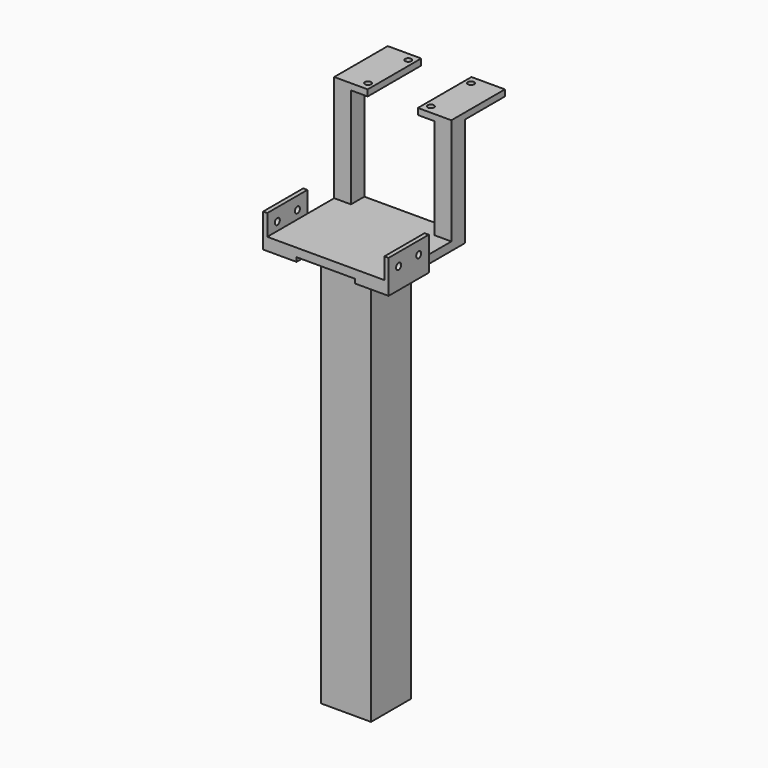
from build123d import *

# Parameters (mm, degrees)
F0_W      = 76.2
F0_H      = 76.2
F0_W_2    = 63.5
F0_H_2    = 63.5
F1_DEPTH  = 609.6
F2_W      = 177.8
F2_H      = 152.4
F3_DEPTH  = 12.7
F5_DEPTH  = 6.35
F6_W      = 6.35
F6_H      = 76.2
F7_DEPTH  = 44.45
F8_W      = 6.35
F8_H      = 76.2
F9_DEPTH  = 44.45
F10_R     = 4.7625
F11_DEPTH = 254
F13_W     = 25.4
F13_H     = 25.4
F14_DEPTH = 152.4
F15_W     = 50.8
F15_H     = 101.6
F16_DEPTH = 9.525
F17_W     = 50.8
F17_H     = 101.6
F18_DEPTH = 9.525
F19_R     = 4.7625
F20_DEPTH = 25.4
F21_R     = 4.7625
F22_DEPTH = 25.4


with BuildPart() as f1:
    # F0 (on Top) → F1 (new body)
    with BuildSketch(Plane.XY):
        Rectangle(F0_W, F0_H)
        Rectangle(F0_W_2, F0_H_2, mode=Mode.SUBTRACT)
    extrude(amount=F1_DEPTH)

    # F2 (on face) → F3 (join)
    with BuildSketch(Plane.XY.offset(609.6)):
        Rectangle(F2_W, F2_H)
    extrude(amount=F3_DEPTH)

    # F4 (on face) → F5 (join)
    with BuildSketch(Plane(origin=(0, 0, 609.6), x_dir=(1, 0, 0), z_dir=(0, 0, -1))):
        Polygon((95.25, 76.2), (88.9, 76.2), (44.45, 76.2), (44.45, 0), (95.25, 0), align=None)
        Polygon((-44.45, 76.2), (-88.9, 76.2), (-95.25, 76.2), (-95.25, 0), (-44.45, 0), align=None)
    extrude(amount=F5_DEPTH)

    # F6 (on face) → F7 (join)
    with BuildSketch(Plane.XY.offset(609.6)):
        with Locations((-92.075, -38.1)):
            Rectangle(F6_W, F6_H)
    extrude(amount=F7_DEPTH)

    # F8 (on face) → F9 (join)
    with BuildSketch(Plane.XY.offset(609.6)):
        with Locations((92.075, -38.1)):
            Rectangle(F8_W, F8_H)
    extrude(amount=F9_DEPTH)

    # F10 (on face) → F11 (cut)
    with BuildSketch(Plane.YZ.offset(95.25)):
        with Locations((-57.15, 635)):
            Circle(F10_R)
        with Locations((-19.05, 635)):
            Circle(F10_R)
    extrude(amount=-F11_DEPTH, mode=Mode.SUBTRACT)

    # F13 (on face) → F14 (join)
    with BuildSketch(Plane.XY.offset(622.3)):
        with Locations((-76.2, 63.5)):
            Rectangle(F13_W, F13_H)
        with Locations((76.2, 63.5)):
            Rectangle(F13_W, F13_H)
    extrude(amount=F14_DEPTH)

    # F15 (on face) → F16 (join)
    with BuildSketch(Plane.XY.offset(774.7)):
        with Locations((63.5, 101.6)):
            Rectangle(F15_W, F15_H)
    extrude(amount=F16_DEPTH)

    # F17 (on face) → F18 (join)
    with BuildSketch(Plane.XY.offset(774.7)):
        with Locations((-63.5, 101.6)):
            Rectangle(F17_W, F17_H)
    extrude(amount=F18_DEPTH)

    # F19 (on face) → F20 (cut)
    with BuildSketch(Plane.XY.offset(784.225)):
        with Locations((-47.625, 63.5)):
            Circle(F19_R)
        with Locations((-47.625, 139.7)):
            Circle(F19_R)
    extrude(amount=-F20_DEPTH, mode=Mode.SUBTRACT)

    # F21 (on face) → F22 (cut)
    with BuildSketch(Plane.XY.offset(784.225)):
        with Locations((47.625, 63.5)):
            Circle(F21_R)
        with Locations((47.625, 139.7)):
            Circle(F21_R)
    extrude(amount=-F22_DEPTH, mode=Mode.SUBTRACT)


solid = f1.part
